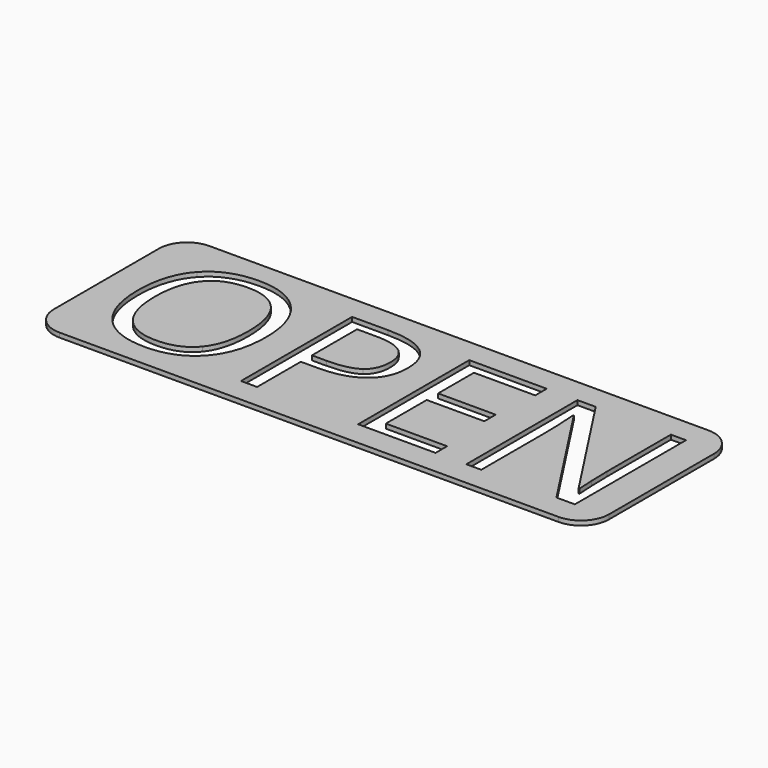
from build123d import *

# Parameters (mm, degrees)
F1_DEPTH = 0.8


with BuildPart() as f1:
    # F0 (on Top) → F1 (new body)
    with BuildSketch(Plane.XY):
        with BuildLine():
            Line((44.5111420751, 16.4517331868), (-44.3552014232, 16.4517331868))
            ThreePointArc((-44.3552014232, 16.4517331868), (-47.8907353291, 14.9872670928), (-49.3552014232, 11.4517331868))
            Line((-49.3552014232, 11.4517331868), (-49.3552014232, -11.9195551425))
            ThreePointArc((-49.3552014232, -11.9195551425), (-47.8907353291, -15.4550890485), (-44.3552014232, -16.9195551425))
            Line((-44.3552014232, -16.9195551425), (44.5111420751, -16.9195551425))
            ThreePointArc((44.5111420751, -16.9195551425), (48.046675981, -15.4550890485), (49.5111420751, -11.9195551425))
            Line((49.5111420751, -11.9195551425), (49.5111420751, 11.4517331868))
            ThreePointArc((49.5111420751, 11.4517331868), (48.046675981, 14.9872670928), (44.5111420751, 16.4517331868))
        make_face()
        with BuildLine():
            add(Edge.make_bspline(
                [(-24.0440908965, 9.1918323241), (-21.04981469, 5.8077046043), (-21.04981469, -0.1483601825)],
                knots=[0, 0, 0, 1, 1, 1], degree=2))
            add(Edge.make_bspline(
                [(-21.04981469, -0.1483601825), (-21.04981469, -6.0881811563), (-24.0549201052, -9.4912599913)],
                knots=[0, 0, 0, 1, 1, 1], degree=2))
            add(Edge.make_bspline(
                [(-24.0549201052, -9.4912599913), (-27.0600255204, -12.8943388263), (-32.4042400154, -12.8943388263)],
                knots=[0, 0, 0, 1, 1, 1], degree=2))
            add(Edge.make_bspline(
                [(-32.4042400154, -12.8943388263), (-37.8675758063, -12.8943388263), (-40.8374862931, -9.5508206392)],
                knots=[0, 0, 0, 1, 1, 1], degree=2))
            add(Edge.make_bspline(
                [(-40.8374862931, -9.5508206392), (-43.80739678, -6.207302452), (-43.80739678, -0.1158725564)],
                knots=[0, 0, 0, 1, 1, 1], degree=2))
            add(Edge.make_bspline(
                [(-43.80739678, -0.1158725564), (-43.80739678, 5.9268259), (-40.8293643866, 9.2513929719)],
                knots=[0, 0, 0, 1, 1, 1], degree=2))
            add(Edge.make_bspline(
                [(-40.8293643866, 9.2513929719), (-37.8513319932, 12.5759600439), (-32.3717523893, 12.5759600439)],
                knots=[0, 0, 0, 1, 1, 1], degree=2))
            add(Edge.make_bspline(
                [(-32.3717523893, 12.5759600439), (-27.038367103, 12.5759600439), (-24.0440908965, 9.1918323241)],
                knots=[0, 0, 0, 1, 1, 1], degree=2))
        make_face(mode=Mode.SUBTRACT)
        with BuildLine():
            add(Edge.make_bspline(
                [(-9.1214413034, 12.1861085305), (0.1483613467, 12.1861085305), (0.1483613467, 4.9792701385)],
                knots=[0, 0, 0, 1, 1, 1], degree=2))
            add(Edge.make_bspline(
                [(0.1483613467, 4.9792701385), (0.1483613467, 1.2215347184), (-2.4154538138, -0.8008200069)],
                knots=[0, 0, 0, 1, 1, 1], degree=2))
            add(Edge.make_bspline(
                [(-2.4154538138, -0.8008200069), (-4.9792689743, -2.8231747322), (-9.7495354081, -2.8231747322)],
                knots=[0, 0, 0, 1, 1, 1], degree=2))
            Line((-9.7495354081, -2.8231747322), (-12.6625925493, -2.8231747322))
            Line((-12.6625925493, -2.8231747322), (-12.6625925493, -12.5532187521))
            Line((-12.6625925493, -12.5532187521), (-15.5377474601, -12.5532187521))
            Line((-15.5377474601, -12.5532187521), (-15.5377474601, 12.1861085305))
            Line((-15.5377474601, 12.1861085305), (-9.1214413034, 12.1861085305))
        make_face(mode=Mode.SUBTRACT)
        Polygon((19.1157203905, -9.9812816851), (19.1157203905, -12.5532187521), (5.3247231068, -12.5532187521), (5.3247231068, 12.1861085305), (19.1157203905, 12.1861085305), (19.1157203905, 9.6304152766), (8.1998780176, 9.6304152766), (8.1998780176, 1.6601176709), (18.4551386596, 1.6601176709), (18.4551386596, -0.87933177), (8.1998780176, -0.87933177), (8.1998780176, -9.9812816851), align=None, mode=Mode.SUBTRACT)
        with BuildLine():
            Line((43.9200229254, 12.1861085305), (43.9200229254, -12.5532187521))
            Line((43.9200229254, -12.5532187521), (40.6387726883, -12.5532187521))
            Line((40.6387726883, -12.5532187521), (27.1185056222, 8.2063743321))
            Line((27.1185056222, 8.2063743321), (26.9831405134, 8.2063743321))
            add(Edge.make_bspline(
                [(26.9831405134, 8.2063743321), (27.253870731, 4.5515163947), (27.253870731, 1.5085087491)],
                knots=[0, 0, 0, 1, 1, 1], degree=2))
            Line((27.253870731, 1.5085087491), (27.253870731, -12.5532187521))
            Line((27.253870731, -12.5532187521), (24.5952999944, -12.5532187521))
            Line((24.5952999944, -12.5532187521), (24.5952999944, 12.1861085305))
            Line((24.5952999944, 12.1861085305), (27.8440626054, 12.1861085305))
            Line((27.8440626054, 12.1861085305), (41.3318420453, -8.4922654884))
            Line((41.3318420453, -8.4922654884), (41.4672071541, -8.4922654884))
            add(Edge.make_bspline(
                [(41.4672071541, -8.4922654884), (41.434719528, -8.0374387229), (41.3155982323, -5.5575499298)],
                knots=[0, 0, 0, 1, 1, 1], degree=2))
            add(Edge.make_bspline(
                [(41.3155982323, -5.5575499298), (41.1964769365, -3.0776611368), (41.2289645626, -2.0109840795)],
                knots=[0, 0, 0, 1, 1, 1], degree=2))
            Line((41.2289645626, -2.0109840795), (41.2289645626, 12.1861085305))
            Line((41.2289645626, 12.1861085305), (43.9200229254, 12.1861085305))
        make_face(mode=Mode.SUBTRACT)
    extrude(amount=F1_DEPTH)


with BuildPart() as f1b:
    # F0 (on Top) → F1, piece 2 (new body)
    with BuildSketch(Plane.XY):
        with BuildLine():
            add(Edge.make_bspline(
                [(-38.6229131133, 7.405012888), (-40.7643891344, 4.8060027992), (-40.7643891344, -0.1483601825)],
                knots=[0, 0, 0, 1, 1, 1], degree=2))
            add(Edge.make_bspline(
                [(-40.7643891344, -0.1483601825), (-40.7643891344, -5.1731130208), (-38.6229131133, -7.7721231096)],
                knots=[0, 0, 0, 1, 1, 1], degree=2))
            add(Edge.make_bspline(
                [(-38.6229131133, -7.7721231096), (-36.4814370922, -10.3711331984), (-32.4042400154, -10.3711331984)],
                knots=[0, 0, 0, 1, 1, 1], degree=2))
            add(Edge.make_bspline(
                [(-32.4042400154, -10.3711331984), (-28.2945553125, -10.3711331984), (-26.1963961263, -7.7829523183)],
                knots=[0, 0, 0, 1, 1, 1], degree=2))
            add(Edge.make_bspline(
                [(-26.1963961263, -7.7829523183), (-24.09823694, -5.1947714383), (-24.09823694, -0.1483601825)],
                knots=[0, 0, 0, 1, 1, 1], degree=2))
            add(Edge.make_bspline(
                [(-24.09823694, -0.1483601825), (-24.09823694, 4.8439050297), (-26.1882742197, 7.4239640033)],
                knots=[0, 0, 0, 1, 1, 1], degree=2))
            add(Edge.make_bspline(
                [(-26.1882742197, 7.4239640033), (-28.2783114995, 10.0040229768), (-32.3717523893, 10.0040229768)],
                knots=[0, 0, 0, 1, 1, 1], degree=2))
            add(Edge.make_bspline(
                [(-32.3717523893, 10.0040229768), (-36.4814370922, 10.0040229768), (-38.6229131133, 7.405012888)],
                knots=[0, 0, 0, 1, 1, 1], degree=2))
        make_face()
    extrude(amount=F1_DEPTH)


with BuildPart() as f1c:
    # F0 (on Top) → F1, piece 3 (new body)
    with BuildSketch(Plane.XY):
        with BuildLine():
            Line((-12.6625925493, 9.6953905288), (-12.6625925493, -0.3541151479))
            Line((-12.6625925493, -0.3541151479), (-10.0689970649, -0.3541151479))
            add(Edge.make_bspline(
                [(-10.0689970649, -0.3541151479), (-6.2462863926, -0.3541151479), (-4.5379787197, 0.8804146443)],
                knots=[0, 0, 0, 1, 1, 1], degree=2))
            add(Edge.make_bspline(
                [(-4.5379787197, 0.8804146443), (-2.8296710467, 2.1149444365), (-2.8296710467, 4.8439050297)],
                knots=[0, 0, 0, 1, 1, 1], degree=2))
            add(Edge.make_bspline(
                [(-2.8296710467, 4.8439050297), (-2.8296710467, 7.296720801), (-4.4378085392, 8.4960556649)],
                knots=[0, 0, 0, 1, 1, 1], degree=2))
            add(Edge.make_bspline(
                [(-4.4378085392, 8.4960556649), (-6.0459460316, 9.6953905288), (-9.4463175645, 9.6953905288)],
                knots=[0, 0, 0, 1, 1, 1], degree=2))
            Line((-9.4463175645, 9.6953905288), (-12.6625925493, 9.6953905288))
        make_face()
    extrude(amount=F1_DEPTH)


solid = Compound([f1.part, f1b.part, f1c.part])
